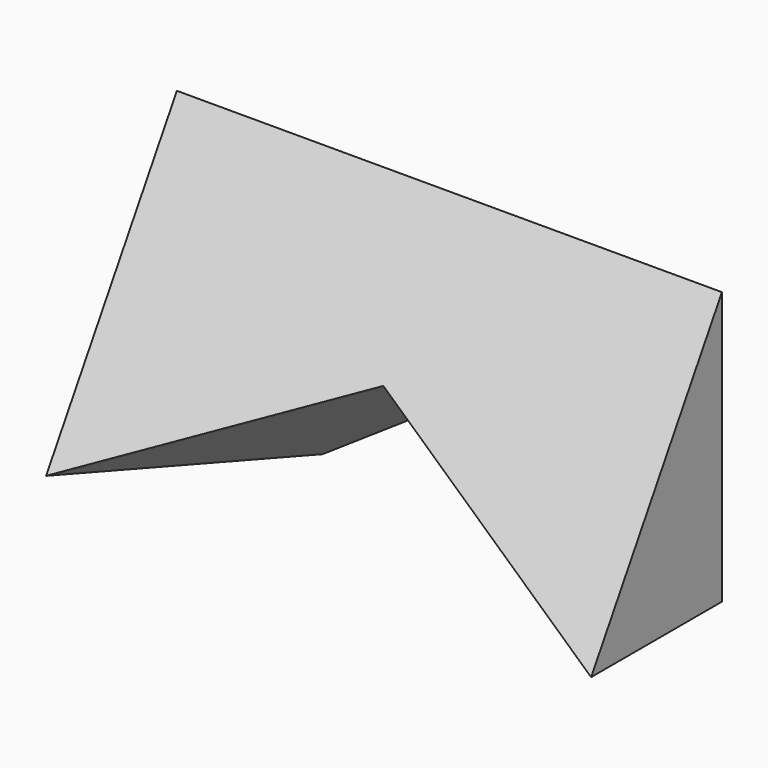
from build123d import *

# Parameters (mm, degrees)
F1_DEPTH = 127
F3_DEPTH = 32.67148


with BuildPart() as f1:
    # F0 (on Right) → F1 (new body)
    with BuildSketch(Plane.YZ):
        Polygon((-3.369482, -22.250649), (-3.369482, 41.249351), (-41.469482, -22.250649), align=None)
    extrude(amount=-F1_DEPTH)

    # F2 (on face) → F3 (cut, through all)
    with BuildSketch(Plane(origin=(0, -20.675804, 12.405482), x_dir=(1, 0, 0), z_dir=(0, -0.857493, 0.514496))):
        Polygon((-127, -40.415646), (0, -40.415646), (-63.5, -3.753904), align=None)
    extrude(amount=-F3_DEPTH, mode=Mode.SUBTRACT)


solid = f1.part
